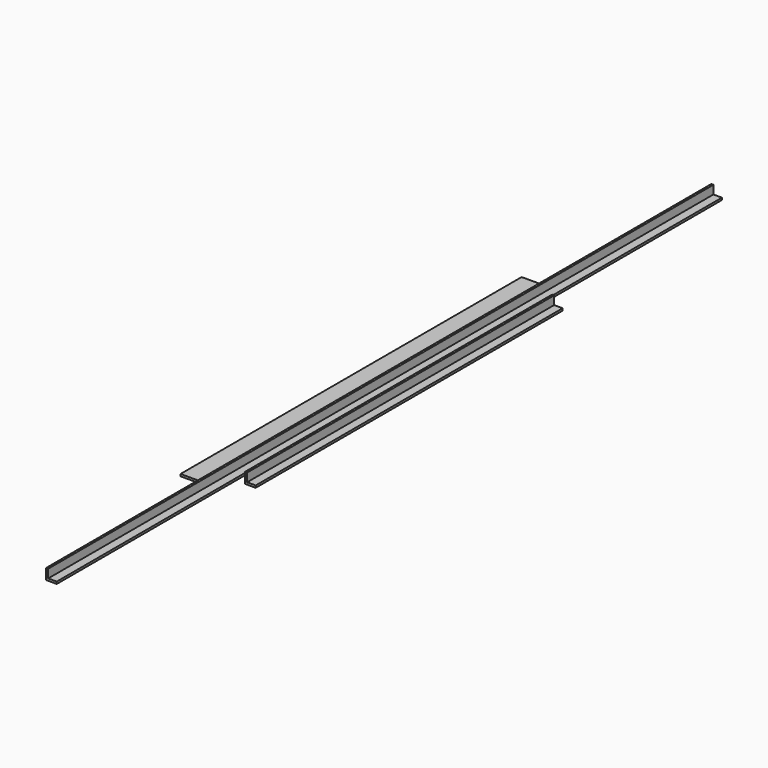
from build123d import *

# Parameters (mm, degrees)
F1_DEPTH = 975
F3_DEPTH = 450
F4_W     = 50
F4_H     = 5
F5_DEPTH = 500


with BuildPart() as f1:
    # F0 (on Front) → F1 (new body, symmetric)
    with BuildSketch(Plane.XZ):
        Polygon((0, 25), (0, 0), (25, 0), (25, 5), (5, 5), (5, 25), align=None)
    extrude(amount=F1_DEPTH, both=True)


with BuildPart() as f3:
    # F2 (on Front) → F3 (new body, symmetric)
    with BuildSketch(Plane.XZ):
        Polygon((46.533303, 25.222328), (46.533303, 0.222328), (71.533303, 0.222328), (71.533303, 5.222328), (51.533303, 5.222328), (51.533303, 25.222328), align=None)
    extrude(amount=F3_DEPTH, both=True)


with BuildPart() as f5:
    # F4 (on Front) → F5 (new body, symmetric)
    with BuildSketch(Plane.XZ):
        with Locations((-39.676264, 2.5)):
            Rectangle(F4_W, F4_H)
    extrude(amount=F5_DEPTH, both=True)


solid = Compound([f1.part, f3.part, f5.part])
